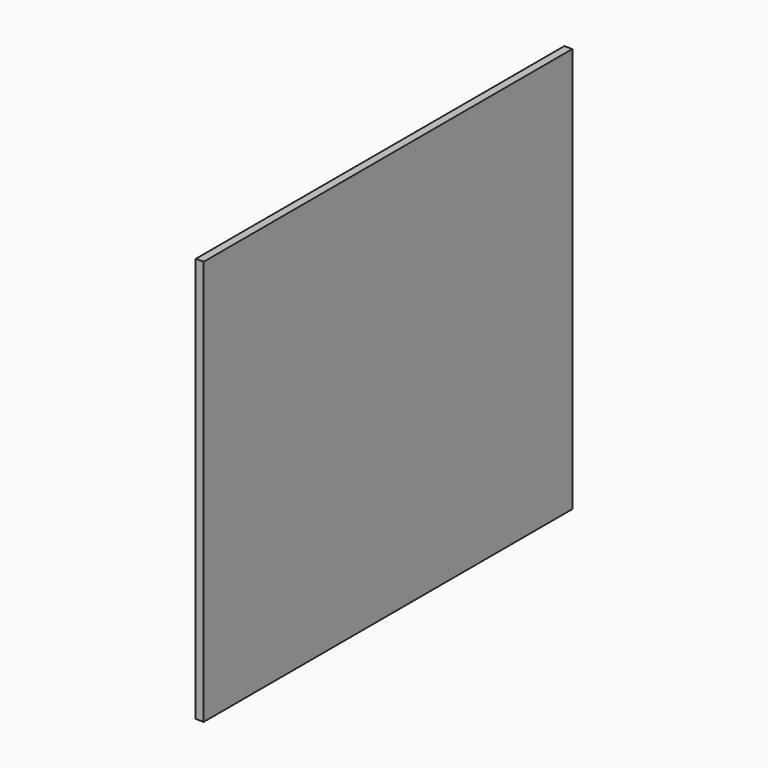
from build123d import *

# Parameters (mm, degrees)
F0_W     = 22.024408
F0_H     = 19.366786
F1_DEPTH = 0.381186
F2_R     = 0.551044
F2_R_2   = 0.628771
F2_R_3   = 0.547978
F2_R_4   = 0.55273
F3_DEPTH = 0.223633


with BuildPart() as f1:
    # F0 (on Right) → F1 (new body)
    with BuildSketch(Plane.YZ):
        with Locations((-3.738664, 9.683393)):
            Rectangle(F0_W, F0_H)
    extrude(amount=F1_DEPTH)

    # F2 (on face) → F3 (join)
    with BuildSketch(Plane(origin=(0, 0, 0), x_dir=(0, -1, 0), z_dir=(-1, 0, 0))):
        with Locations((12.478326, 17.33602)):
            Circle(F2_R)
        with Locations((-5.614867, 17.33602)):
            Circle(F2_R_2)
        with Locations((-5.614867, 1.651978)):
            Circle(F2_R_3)
        with Locations((12.478326, 1.651978)):
            Circle(F2_R_4)
    extrude(amount=F3_DEPTH)


solid = f1.part
